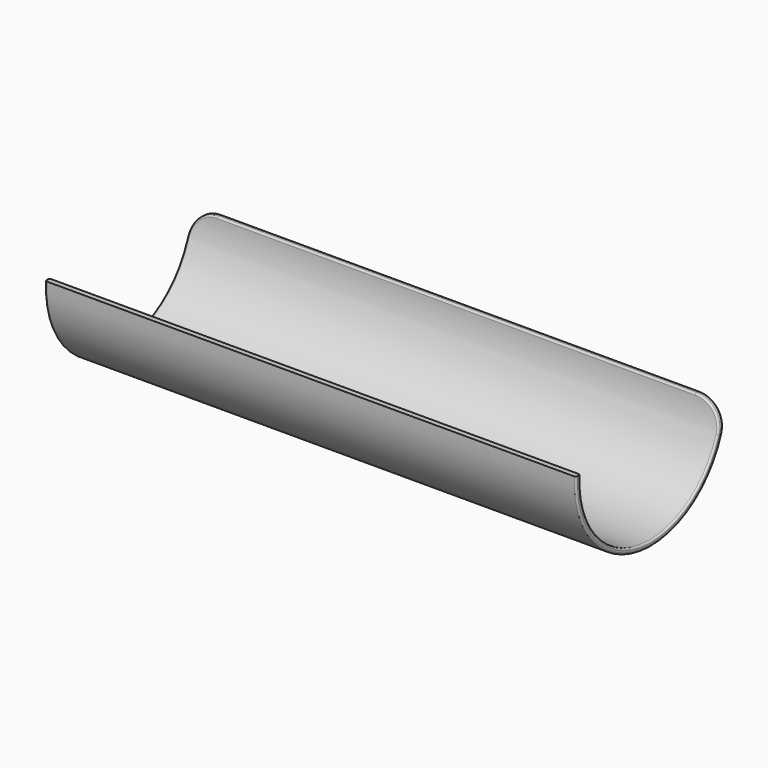
from build123d import *

# Parameters (mm, degrees)
F0_R     = 53
F0_R_2   = 50
F1_DEPTH = 300
F3_DEPTH = 300.001
F4_R     = 15
F5_R     = 1


with BuildPart() as f1:
    # F0 (on Right) → F1 (new body)
    with BuildSketch(Plane.YZ):
        with Locations((0, 1.8706418186)):
            Circle(F0_R)
        with Locations((0, 1.8706418186)):
            Circle(F0_R_2, mode=Mode.SUBTRACT)
    extrude(amount=F1_DEPTH)

    # F2 (on Right) → F3 (cut, through all)
    with BuildSketch(Plane.YZ):
        Polygon((-45, 0), (0, 0), (150.288850058, 0), (150.288850058, 138.1199563971), (0, 138.1199563971), (-236.3291914778, 138.1199563971), (-236.3291914778, 0), (-65, 0), (-65, 5), (-45, 5), align=None)
    extrude(amount=F3_DEPTH, mode=Mode.SUBTRACT)

    # F4
    f4_edges = [f1.edges().sort_by_distance(p)[0] for p in [
        (300, 51.465986, 0),
        (0, 51.465986, 0),
    ]]
    fillet(f4_edges, radius=F4_R)

    # F5
    f5_edges = [f1.edges().sort_by_distance(p)[0] for p in [
        (150, 52.966977, 0),
        (285, 51.465986, 0),
        (15, 51.465986, 0),
        (150, 49.964995, 0),
    ]]
    fillet(f5_edges, radius=F5_R)


solid = f1.part
